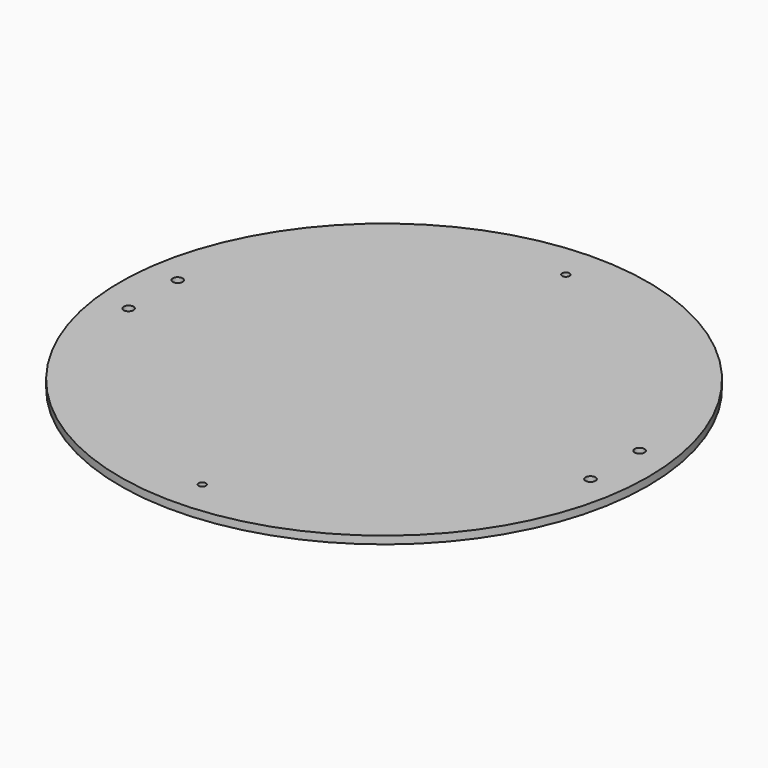
from build123d import *

# Parameters (mm, degrees)
F0_R     = 101.6
F0_R_2   = 1.4224
F0_R_3   = 1.905
F1_DEPTH = 2.9718


with BuildPart() as f1:
    # F0 (on Top) → F1 (new body)
    with BuildSketch(Plane.XY):
        Circle(F0_R)
        with Locations((0, -87.4776)):
            Circle(F0_R_2, mode=Mode.SUBTRACT)
        with Locations((-88.9, -11.811)):
            Circle(F0_R_3, mode=Mode.SUBTRACT)
        with Locations((88.9, -11.811)):
            Circle(F0_R_3, mode=Mode.SUBTRACT)
        with Locations((-88.9, 11.811)):
            Circle(F0_R_3, mode=Mode.SUBTRACT)
        with Locations((0, 87.4776)):
            Circle(F0_R_2, mode=Mode.SUBTRACT)
        with Locations((88.9, 11.811)):
            Circle(F0_R_3, mode=Mode.SUBTRACT)
    extrude(amount=F1_DEPTH)


solid = f1.part
